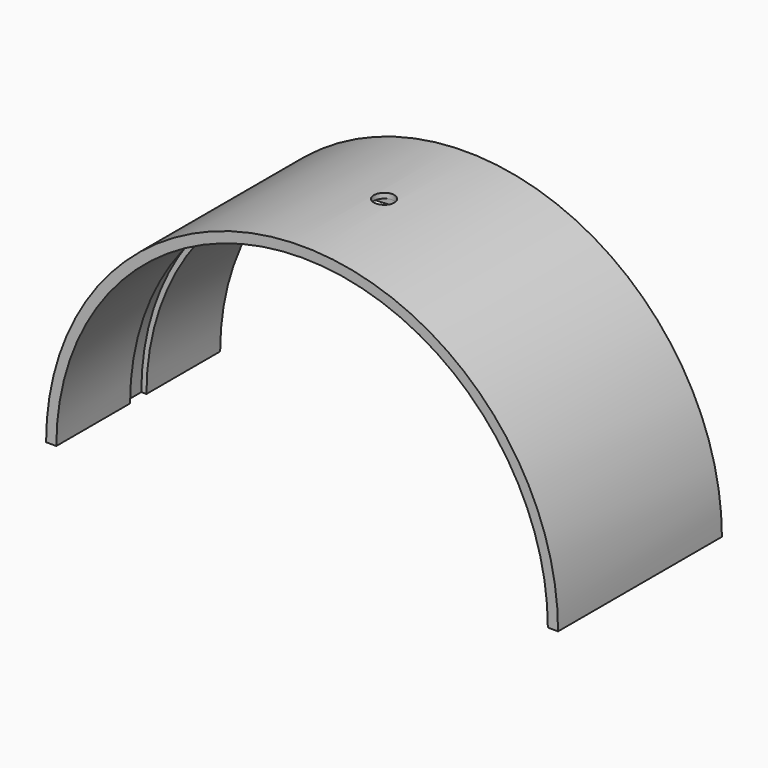
from build123d import *

# Parameters (mm, degrees)
F1_DEPTH = 10
F2_W     = 0.5
F2_H     = 2
F4_R     = 1
F5_DEPTH = 25.001


with BuildPart() as f1:
    # F0 (on Front) → F1 (new body, symmetric)
    with BuildSketch(Plane.XZ):
        with BuildLine():
            Line((24, 0), (25, 0))
            ThreePointArc((25, 0), (0, 25), (-25, 0))
            Line((-25, 0), (-24, 0))
            ThreePointArc((-24, 0), (0, 24), (24, 0))
        make_face()
    extrude(amount=F1_DEPTH, both=True)

    # F2 (on Top) → F3 (revolve, cut)
    with BuildSketch(Plane.XY):
        with Locations((-24.25, 0)):
            Rectangle(F2_W, F2_H)
    revolve(axis=Axis((0, 0, 0), (0, -1, 0)), mode=Mode.SUBTRACT)

    # F4 (on Top) → F5 (cut, through all)
    with BuildSketch(Plane.XY):
        Circle(F4_R)
    extrude(amount=F5_DEPTH, mode=Mode.SUBTRACT)


solid = f1.part
